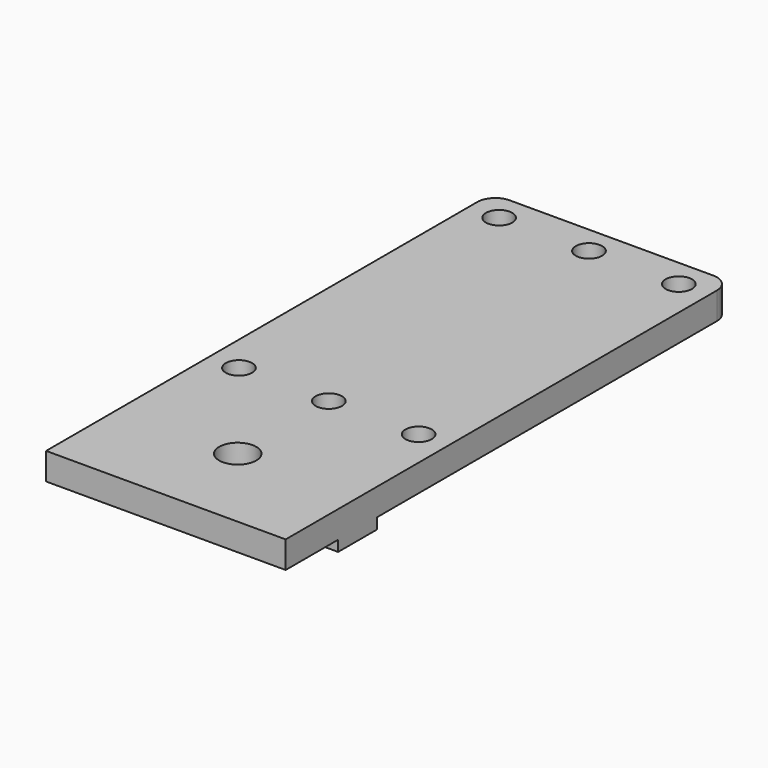
from build123d import *

# Parameters (mm, degrees)
SKETCH_W        = 40
SKETCH_H        = 93
PAD_DEPTH       = 4.5
SKETCH001_R     = 2.2
POCKET_DEPTH    = 5
FILLET_R        = 3
SKETCH002_R     = 3.1
POCKET001_DEPTH = 5
SKETCH003_W     = 15
SKETCH003_H     = 8.1
PAD001_DEPTH    = 1.8


with BuildPart() as part:
    # Sketch → Pad (new body)
    with BuildSketch(Plane.XY):
        with Locations((0, 16.5)):
            Rectangle(SKETCH_W, SKETCH_H)
    extrude(amount=PAD_DEPTH)

    # Sketch001 (on Face6 of Pad) → Pocket (cut)
    with BuildSketch(Plane.XY.offset(4.5)):
        with Locations((-15, 58.3)):
            Circle(SKETCH001_R)
        with Locations((15, 58.3)):
            Circle(SKETCH001_R)
        with Locations((0, 58.3)):
            Circle(SKETCH001_R)
        with Locations((-15, 4)):
            Circle(SKETCH001_R)
        with Locations((0, 4)):
            Circle(SKETCH001_R)
        with Locations((15, 4)):
            Circle(SKETCH001_R)
    extrude(amount=-POCKET_DEPTH, mode=Mode.SUBTRACT)

    # Fillet
    fillet_edges = [part.edges().sort_by_distance(p)[0] for p in [
        (20, 63, 2.25),
        (-20, 63, 2.25),
    ]]
    fillet(fillet_edges, radius=FILLET_R)

    # Sketch002 (on Face5 of Fillet) → Pocket001 (cut)
    with BuildSketch(Plane.XY.offset(4.5)):
        with Locations((0, -15)):
            Circle(SKETCH002_R)
    extrude(amount=-POCKET001_DEPTH, mode=Mode.SUBTRACT)

    # Sketch003 (on Face2 of Pocket001) → Pad001 (join)
    with BuildSketch(Plane(origin=(0, 0, 0), x_dir=(1, 0, 0), z_dir=(0, 0, -1))):
        with Locations((-12.5, 15)):
            Rectangle(SKETCH003_W, SKETCH003_H)
        with Locations((12.5, 15)):
            Rectangle(SKETCH003_W, SKETCH003_H)
    extrude(amount=PAD001_DEPTH)


solid = part.part
